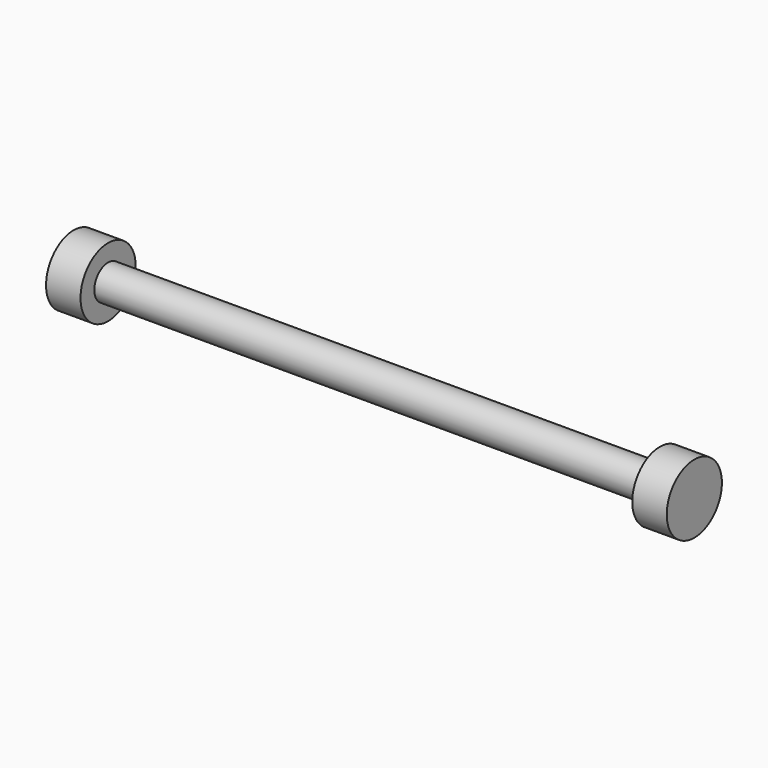
from build123d import *

# Parameters (mm, degrees)
F0_R     = 3.175
F1_DEPTH = 3.175
F2_R     = 1.5875
F3_DEPTH = 50.8
F4_R     = 3.175
F4_R_2   = 1.5875
F5_DEPTH = 3.175


with BuildPart() as f1:
    # F0 (on Right) → F1 (new body)
    with BuildSketch(Plane.YZ):
        Circle(F0_R)
    extrude(amount=F1_DEPTH)

    # F2 (on face) → F3 (join)
    with BuildSketch(Plane.YZ.offset(3.175)):
        Circle(F2_R)
    extrude(amount=F3_DEPTH)

    # F4 (on face) → F5 (join)
    with BuildSketch(Plane.YZ.offset(53.975)):
        Circle(F4_R)
        Circle(F4_R_2, mode=Mode.SUBTRACT)
        Circle(F4_R_2)
    extrude(amount=F5_DEPTH)


solid = f1.part
